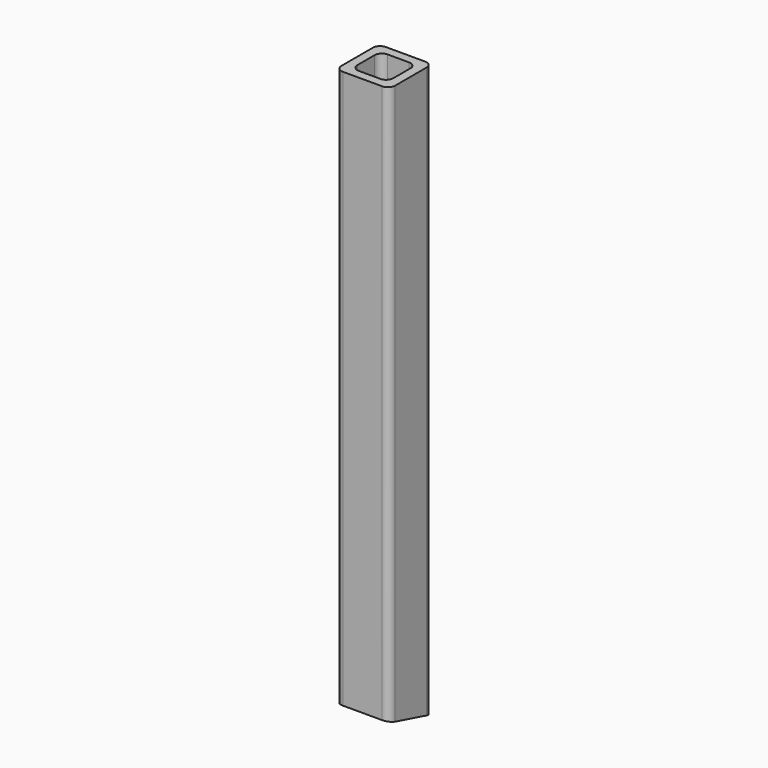
from build123d import *

# Parameters (mm, degrees)
F0_W     = 38.1
F0_H     = 38.1
F0_W_2   = 25.4
F0_H_2   = 25.4
F1_DEPTH = 203.2
F2_R     = 5.08
F5_DEPTH = 38.1


with BuildPart() as f1:
    # F0 (on Top) → F1 (new body)
    with BuildSketch(Plane.XY):
        Rectangle(F0_W, F0_H)
        Rectangle(F0_W_2, F0_H_2, mode=Mode.SUBTRACT)
    extrude(amount=F1_DEPTH)

    # F2
    f2_edges = [f1.edges().sort_by_distance(p)[0] for p in [
        (-19.05, 19.05, 101.6),
        (-19.05, -19.05, 101.6),
        (19.05, -19.05, 101.6),
        (19.05, 19.05, 101.6),
        (-12.7, 12.7, 101.6),
        (12.7, 12.7, 101.6),
        (12.7, -12.7, 101.6),
        (-12.7, -12.7, 101.6),
    ]]
    fillet(f2_edges, radius=F2_R)

    # F3: F1 across face


with BuildPart() as f1_1:
    add(f1.part)
    add(f1.part.mirror(Plane.XY.offset(203.2)))

    # F4 (on face) → F5 (cut, through all)
    with BuildSketch(Plane(origin=(-19.05, 0, 0), x_dir=(0, -1, 0), z_dir=(-1, 0, 0))):
        Polygon((19.05, 10.208864), (-19.05, 0), (19.05, 0), align=None)
    extrude(amount=-F5_DEPTH, mode=Mode.SUBTRACT)


solid = f1_1.part
